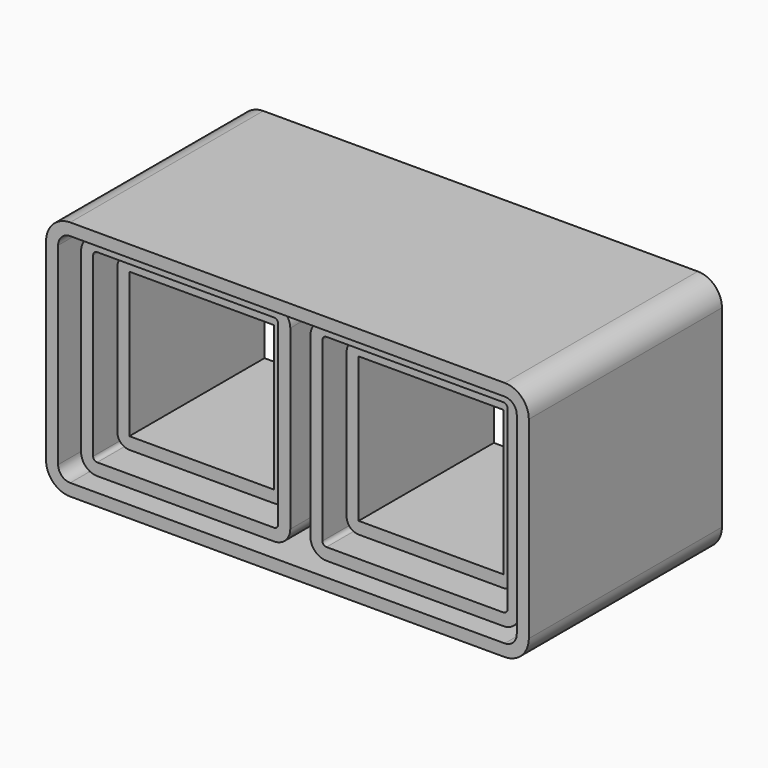
from build123d import *

# Parameters (mm, degrees)
F2_DEPTH = 300
F4_DEPTH = 260
F6_W     = 360
F6_H     = 360
F7_DEPTH = 210


with BuildPart() as f2:
    # F1 (on Front) → F2 (new body, symmetric)
    with BuildSketch(Plane.XZ):
        with BuildLine():
            ThreePointArc((600, 240), (582.4264068712, 282.4264068712), (540, 300))
            Line((540, 300), (-540, 300))
            ThreePointArc((-540, 300), (-582.4264068712, 282.4264068712), (-600, 240))
            Line((-600, 240), (-600, -240))
            ThreePointArc((-600, -240), (-582.4264068712, -282.4264068712), (-540, -300))
            Line((-540, -300), (540, -300))
            ThreePointArc((540, -300), (582.4264068712, -282.4264068712), (600, -240))
            Line((600, -240), (600, 240))
        make_face()
        with BuildLine():
            ThreePointArc((540, 270), (561.2132034356, 261.2132034356), (570, 240))
            Line((570, 240), (570, -240))
            ThreePointArc((570, -240), (561.2132034356, -261.2132034356), (540, -270))
            Line((540, -270), (-540, -270))
            ThreePointArc((-540, -270), (-561.2132034356, -261.2132034356), (-570, -240))
            Line((-570, -240), (-570, 240))
            ThreePointArc((-570, 240), (-561.2132034356, 261.2132034356), (-540, 270))
            Line((-540, 270), (540, 270))
        make_face(mode=Mode.SUBTRACT)
    extrude(amount=F2_DEPTH, both=True)


with BuildPart() as f4:
    # F3 (on Front) → F4 (new body, symmetric)
    with BuildSketch(Plane.XZ):
        with BuildLine():
            ThreePointArc((-25, 220), (-36.7157287525, 248.2842712475), (-65, 260))
            Line((-65, 260), (-505, 260))
            ThreePointArc((-505, 260), (-533.2842712475, 248.2842712475), (-545, 220))
            Line((-545, 220), (-545, -220))
            ThreePointArc((-545, -220), (-533.2842712475, -248.2842712475), (-505, -260))
            Line((-505, -260), (-65, -260))
            ThreePointArc((-65, -260), (-36.7157287525, -248.2842712475), (-25, -220))
            Line((-25, -220), (-25, 220))
        make_face()
        with BuildLine():
            Line((-505, 230), (-65, 230))
            ThreePointArc((-65, 230), (-57.9289321881, 227.0710678119), (-55, 220))
            Line((-55, 220), (-55, -220))
            ThreePointArc((-55, -220), (-57.9289321881, -227.0710678119), (-65, -230))
            Line((-65, -230), (-505, -230))
            ThreePointArc((-505, -230), (-512.0710678119, -227.0710678119), (-515, -220))
            Line((-515, -220), (-515, 220))
            ThreePointArc((-515, 220), (-512.0710678119, 227.0710678119), (-505, 230))
        make_face(mode=Mode.SUBTRACT)
    extrude(amount=F4_DEPTH, both=True)


with BuildPart() as f4b:
    # F3 (on Front) → F4, piece 2 (new body, symmetric)
    with BuildSketch(Plane.XZ):
        with BuildLine():
            ThreePointArc((545, 220), (533.2842712475, 248.2842712475), (505, 260))
            Line((505, 260), (65, 260))
            ThreePointArc((65, 260), (36.7157287525, 248.2842712475), (25, 220))
            Line((25, 220), (25, -220))
            ThreePointArc((25, -220), (36.7157287525, -248.2842712475), (65, -260))
            Line((65, -260), (505, -260))
            ThreePointArc((505, -260), (533.2842712475, -248.2842712475), (545, -220))
            Line((545, -220), (545, 220))
        make_face()
        with BuildLine():
            Line((515, 220), (515, -220))
            ThreePointArc((515, -220), (512.0710678119, -227.0710678119), (505, -230))
            Line((505, -230), (65, -230))
            ThreePointArc((65, -230), (57.9289321881, -227.0710678119), (55, -220))
            Line((55, -220), (55, 220))
            ThreePointArc((55, 220), (57.9289321881, 227.0710678119), (65, 230))
            Line((65, 230), (505, 230))
            ThreePointArc((505, 230), (512.0710678119, 227.0710678119), (515, 220))
        make_face(mode=Mode.SUBTRACT)
    extrude(amount=F4_DEPTH, both=True)


with BuildPart() as f4c:
    # F0 (on Front) → F4, piece 3 (new body, symmetric)
    with BuildSketch(Plane.XZ):
        with BuildLine():
            ThreePointArc((505, -260), (533.2842712475, -248.2842712475), (545, -220))
            Line((545, -220), (545, 220))
            ThreePointArc((545, 220), (533.2842712475, 248.2842712475), (505, 260))
            Line((505, 260), (65, 260))
            ThreePointArc((65, 260), (36.7157287525, 248.2842712475), (25, 220))
            Line((25, 220), (25, -220))
            ThreePointArc((25, -220), (36.7157287525, -248.2842712475), (65, -260))
            Line((65, -260), (505, -260))
        make_face()
        with BuildLine():
            Line((515, 220), (515, -220))
            ThreePointArc((515, -220), (512.0710678119, -227.0710678119), (505, -230))
            Line((505, -230), (65, -230))
            ThreePointArc((65, -230), (57.9289321881, -227.0710678119), (55, -220))
            Line((55, -220), (55, 220))
            ThreePointArc((55, 220), (57.9289321881, 227.0710678119), (65, 230))
            Line((65, 230), (505, 230))
            ThreePointArc((505, 230), (512.0710678119, 227.0710678119), (515, 220))
        make_face(mode=Mode.SUBTRACT)
    extrude(amount=F4_DEPTH, both=True)


with BuildPart() as f4d:
    # F0 (on Front) → F4, piece 4 (new body, symmetric)
    with BuildSketch(Plane.XZ):
        with BuildLine():
            ThreePointArc((-25, 220), (-36.7157287525, 248.2842712475), (-65, 260))
            Line((-65, 260), (-505, 260))
            ThreePointArc((-505, 260), (-533.2842712475, 248.2842712475), (-545, 220))
            Line((-545, 220), (-545, -220))
            ThreePointArc((-545, -220), (-533.2842712475, -248.2842712475), (-505, -260))
            Line((-505, -260), (-65, -260))
            ThreePointArc((-65, -260), (-36.7157287525, -248.2842712475), (-25, -220))
            Line((-25, -220), (-25, 220))
        make_face()
        with BuildLine():
            ThreePointArc((-65, 230), (-57.9289321881, 227.0710678119), (-55, 220))
            Line((-55, 220), (-55, -220))
            ThreePointArc((-55, -220), (-57.9289321881, -227.0710678119), (-65, -230))
            Line((-65, -230), (-505, -230))
            ThreePointArc((-505, -230), (-512.0710678119, -227.0710678119), (-515, -220))
            Line((-515, -220), (-515, 220))
            ThreePointArc((-515, 220), (-512.0710678119, 227.0710678119), (-505, 230))
            Line((-505, 230), (-65, 230))
        make_face(mode=Mode.SUBTRACT)
    extrude(amount=F4_DEPTH, both=True)


with BuildPart() as f7:
    # F6 (on Front) → F7 (new body, symmetric)
    with BuildSketch(Plane.XZ):
        with BuildLine():
            ThreePointArc((-75, 180), (-83.7867965644, 201.2132034356), (-105, 210))
            Line((-105, 210), (-465, 210))
            ThreePointArc((-465, 210), (-486.2132034356, 201.2132034356), (-495, 180))
            Line((-495, 180), (-495, -180))
            ThreePointArc((-495, -180), (-486.2132034356, -201.2132034356), (-465, -210))
            Line((-465, -210), (-105, -210))
            ThreePointArc((-105, -210), (-83.7867965644, -201.2132034356), (-75, -180))
            Line((-75, -180), (-75, 180))
        make_face()
        with Locations((-285, 0)):
            Rectangle(F6_W, F6_H, mode=Mode.SUBTRACT)
    extrude(amount=F7_DEPTH, both=True)


with BuildPart() as f7b:
    # F6 (on Front) → F7, piece 2 (new body, symmetric)
    with BuildSketch(Plane.XZ):
        with BuildLine():
            Line((465, 210), (105, 210))
            ThreePointArc((105, 210), (83.7867965644, 201.2132034356), (75, 180))
            Line((75, 180), (75, -180))
            ThreePointArc((75, -180), (83.7867965644, -201.2132034356), (105, -210))
            Line((105, -210), (465, -210))
            ThreePointArc((465, -210), (486.2132034356, -201.2132034356), (495, -180))
            Line((495, -180), (495, 180))
            ThreePointArc((495, 180), (486.2132034356, 201.2132034356), (465, 210))
        make_face()
        with Locations((285, 0)):
            Rectangle(F6_W, F6_H, mode=Mode.SUBTRACT)
    extrude(amount=F7_DEPTH, both=True)


solid = Compound([f2.part, f4c.part, f4d.part, f7.part, f7b.part])
